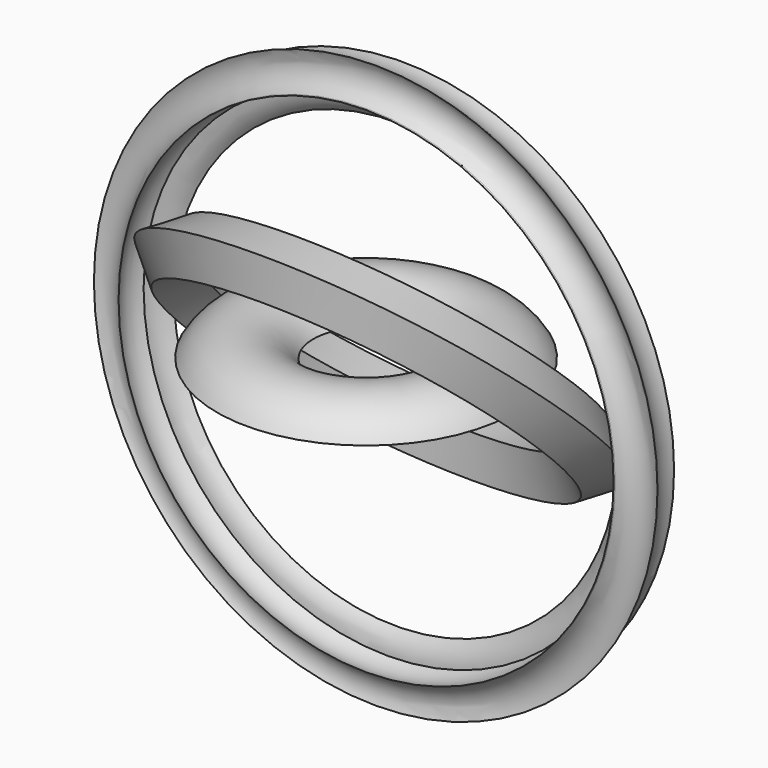
from build123d import *

# Parameters (mm, degrees)
F4_W = 13.7285329401
F4_H = 13.3672580123


with BuildPart() as f1:
    # F0 (on Right) → F1 (revolve)
    with BuildSketch(Plane.YZ):
        with BuildLine():
            ThreePointArc((17.1450003982, 9.3244742602), (28.0026027982, 11.6436530338), (34.5907919109, 2.7071053628))
            ThreePointArc((34.5907919109, 2.7071053628), (39.9944076303, 9.1952653242), (48.42710495, 9.6252635121))
            ThreePointArc((48.42710495, 9.6252635121), (32.697467583, 18.6877249424), (17.1450003982, 9.3244742602))
        make_face()
    revolve(axis=Axis((0, 0, 13.2347363979), (0, 0, 1)))


with BuildPart() as f3:
    # F2 (on Top) → F3 (revolve)
    with BuildSketch(Plane.XY):
        with BuildLine():
            ThreePointArc((72.0477253199, 12.006893754), (75.3413337667, 9.6259175213), (79.3295304914, 8.8441302695))
            ThreePointArc((79.3295304914, 8.8441302695), (76.0820228882, 11.3312470225), (72.0477253199, 12.006893754))
        make_face()
    revolve(axis=Axis((0, 5.6240474805, 0), (0, 1, 0)))


with BuildPart() as f3b:
    # F2 (on Top) → F3, piece 2 (revolve)
    with BuildSketch(Plane.XY):
        with BuildLine():
            ThreePointArc((80.5773252699, 0.4247659821), (80.482771774, 0.2137362032), (80.3945064545, 0))
            ThreePointArc((80.3945064545, 0), (80.4888145593, 0.211135395), (80.5773252699, 0.4247659821))
        make_face()
    revolve(axis=Axis((0, 5.6240474805, 0), (0, 1, 0)))


with BuildPart() as f3c:
    # F2 (on Top) → F3, piece 3 (revolve)
    with BuildSketch(Plane.XY):
        with BuildLine():
            ThreePointArc((79.3295304914, 8.8441302695), (81.0874457349, 4.8025156317), (80.5773252699, 0.4247659821))
            ThreePointArc((80.5773252699, 0.4247659821), (85.2858850353, 4.5680735889), (91.5235504508, 3.9130444638))
            ThreePointArc((91.5235504508, 3.9130444638), (88.1560686395, 8.969439358), (88.0055353045, 15.0426924229))
            ThreePointArc((88.0055353045, 15.0426924229), (84.6224268857, 10.6068651233), (79.3295304914, 8.8441302695))
        make_face()
    revolve(axis=Axis((0, 5.6240474805, 0), (0, 1, 0)))


with BuildPart() as f5:
    # F4 (on Right) → F5 (revolve)
    with BuildSketch(Plane.YZ):
        with Locations((-36.1277181655, 49.6756136417)):
            Rectangle(F4_W, F4_H)
    revolve(axis=Axis((0, 20.1089774904, 20.1089774904), (0, 0.7071067812, 0.7071067812)))


solid = Compound([f1.part, f3.part, f3b.part, f3c.part, f5.part])
